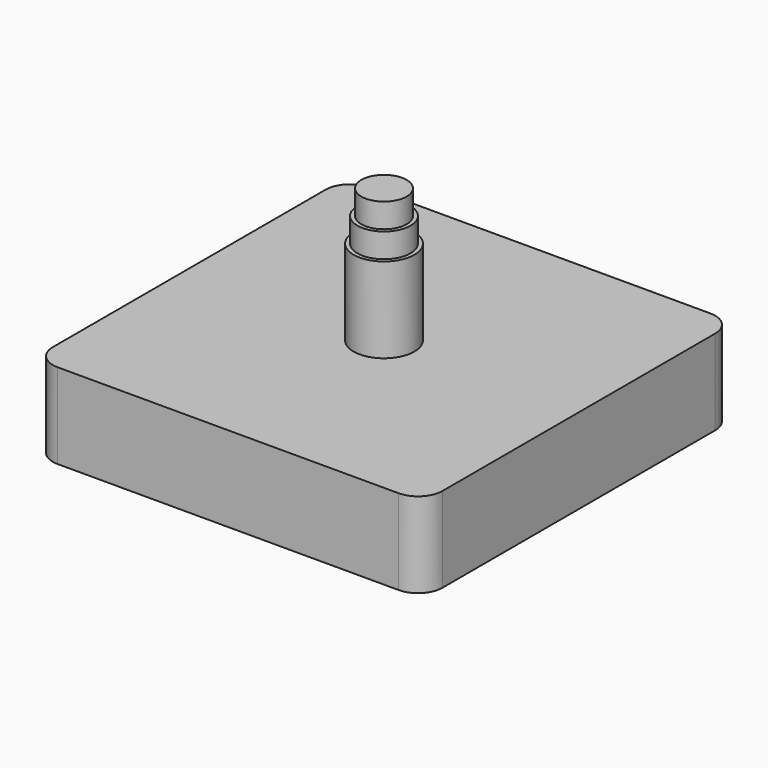
from build123d import *

# Parameters (mm, degrees)
F0_W     = 50.8
F0_H     = 50.8
F1_DEPTH = 11.1125
F2_R     = 3.175
F3_R     = 3.96875
F4_DEPTH = 11.1125
F5_R     = 3.46075
F6_DEPTH = 3.175
F7_R     = 2.95275
F8_DEPTH = 3.175


with BuildPart() as f1:
    # F0 (on Top) → F1 (new body)
    with BuildSketch(Plane.XY):
        Rectangle(F0_W, F0_H)
    extrude(amount=F1_DEPTH)

    # F2
    f2_edges = [f1.edges().sort_by_distance(p)[0] for p in [
        (25.4, -25.4, 5.55625),
        (25.4, 25.4, 5.55625),
        (-25.4, -25.4, 5.55625),
        (-25.4, 25.4, 5.55625),
    ]]
    fillet(f2_edges, radius=F2_R)


with BuildPart() as f4:
    # F3 (on face) → F4 (new body)
    with BuildSketch(Plane.XY.offset(11.1125)):
        Circle(F3_R)
    extrude(amount=F4_DEPTH)

    # F5 (on face) → F6 (join)
    with BuildSketch(Plane.XY.offset(22.225)):
        Circle(F5_R)
    extrude(amount=F6_DEPTH)

    # F7 (on face) → F8 (join)
    with BuildSketch(Plane.XY.offset(25.4)):
        Circle(F7_R)
    extrude(amount=F8_DEPTH)


solid = Compound([f1.part, f4.part])
